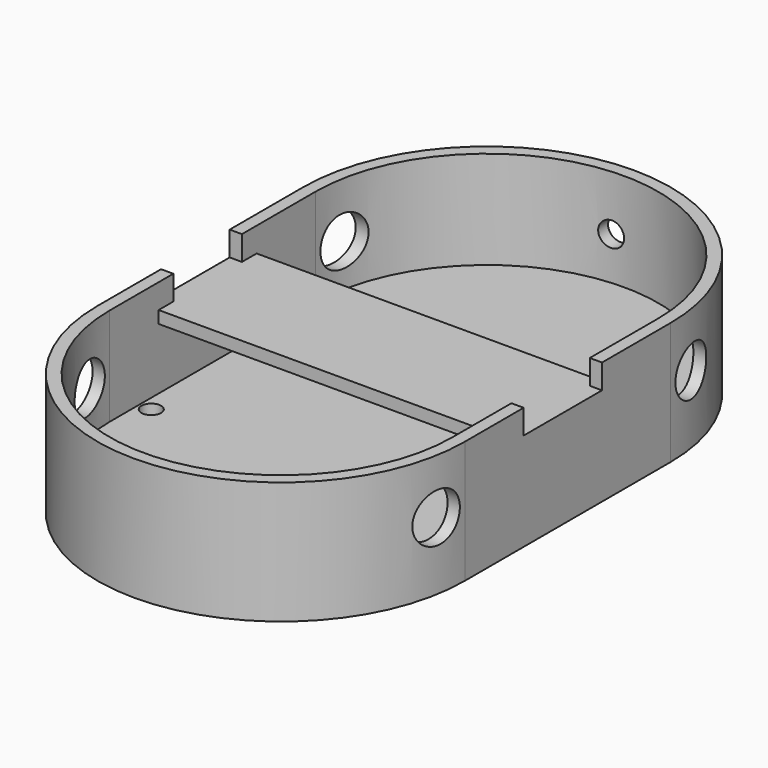
from build123d import *

# Parameters (mm, degrees)
CYLINDER053_R           = 0.8
CYLINDER053_DEPTH       = 10
CYLINDER052_R           = 0.8
CYLINDER052_DEPTH       = 10
BOX056_W                = 1
BOX056_H                = 1
BOX056_DEPTH            = 2
BOX057_W                = 1
BOX057_H                = 1
BOX057_DEPTH            = 2
CYLINDER037_R           = 1
CYLINDER037_DEPTH       = 10
CYLINDER037_ROLL_ANGLE  = 90
CYLINDER029_R           = 2
CYLINDER029_DEPTH       = 10
CYLINDER029_PITCH_ANGLE = 90
CYLINDER031_R           = 2
CYLINDER031_DEPTH       = 10
CYLINDER031_PITCH_ANGLE = 90
CYLINDER030_R           = 2
CYLINDER030_DEPTH       = 10
CYLINDER030_PITCH_ANGLE = 90
CYLINDER028_R           = 2
CYLINDER028_DEPTH       = 10
CYLINDER028_PITCH_ANGLE = 90
BOX012_W                = 33
BOX012_H                = 8
BOX012_DEPTH            = 2
CYLINDER002_W           = 14
CYLINDER002_H           = 8
CYLINDER002_ANGLE       = 180
CYLINDER001_W           = 15
CYLINDER001_H           = 10
CYLINDER001_ANGLE       = 180
CYLINDER003_W           = 14
CYLINDER003_H           = 8
CYLINDER003_ANGLE       = 180
CYLINDER_W              = 15
CYLINDER_H              = 10
CYLINDER_ANGLE          = 180
BOX001_W                = 28
BOX001_H                = 21
BOX001_DEPTH            = 8
BOX_W                   = 30
BOX_H                   = 21
BOX_DEPTH               = 10
FUSION_PLACEMENT_ANGLE  = 180
BOX013_W                = 28
BOX013_H                = 10
BOX013_DEPTH            = 2
BOX011_W                = 28
BOX011_H                = 10
BOX011_DEPTH            = 3


with BuildPart() as cilindro053:
    # Cylinder053 → Cylinder053 (new body)
    with BuildSketch(Plane(origin=(-12, -18, -17), x_dir=(1, 0, 0), z_dir=(0, 0, 1))):
        Circle(CYLINDER053_R)
    extrude(amount=CYLINDER053_DEPTH)


with BuildPart() as cilindro052:
    # Cylinder052 → Cylinder052 (new body)
    with BuildSketch(Plane(origin=(-12, -5, -17), x_dir=(1, 0, 0), z_dir=(0, 0, 1))):
        Circle(CYLINDER052_R)
    extrude(amount=CYLINDER052_DEPTH)


with BuildPart() as cubo056:
    # Box056 → Box056 (new body)
    with BuildSketch(Plane(origin=(-14, -7.5, -2), x_dir=(1, 0, 0), z_dir=(0, 0, 1))):
        with Locations((0.5, 0.5)):
            Rectangle(BOX056_W, BOX056_H)
    extrude(amount=BOX056_DEPTH)


with BuildPart() as cubo057:
    # Box057 → Box057 (new body)
    with BuildSketch(Plane(origin=(-14, -15.5, -2), x_dir=(1, 0, 0), z_dir=(0, 0, 1))):
        with Locations((0.5, 0.5)):
            Rectangle(BOX057_W, BOX057_H)
    extrude(amount=BOX057_DEPTH)


with BuildPart() as cilindro037:
    # Cylinder037 → Cylinder037 (new body)
    with BuildSketch(Plane.XY):
        Circle(CYLINDER037_R)
    extrude(amount=CYLINDER037_DEPTH)


with BuildPart() as cilindro037_1:
    # Cylinder037 roll: moved
    add(cilindro037.part.rotate(Axis((0, 0, 0), (1, 0, 0)), CYLINDER037_ROLL_ANGLE))


with BuildPart() as cilindro037_2:
    # Cylinder037 placement: moved
    add(cilindro037_1.part.moved(Location((-14, 89, 39.5))))


with BuildPart() as cilindro029:
    # Cylinder029 → Cylinder029 (new body)
    with BuildSketch(Plane.XY):
        Circle(CYLINDER029_R)
    extrude(amount=CYLINDER029_DEPTH)


with BuildPart() as cilindro029_1:
    # Cylinder029 pitch: moved
    add(cilindro029.part.rotate(Axis((0, 0, 0), (0, 1, 0)), CYLINDER029_PITCH_ANGLE))


with BuildPart() as cilindro029_2:
    # Cylinder029 placement: moved
    add(cilindro029_1.part.moved(Location((-29, 46.5, 39.5))))


with BuildPart() as cilindro031:
    # Cylinder031 → Cylinder031 (new body)
    with BuildSketch(Plane.XY):
        Circle(CYLINDER031_R)
    extrude(amount=CYLINDER031_DEPTH)


with BuildPart() as cilindro031_1:
    # Cylinder031 pitch: moved
    add(cilindro031.part.rotate(Axis((0, 0, 0), (0, 1, 0)), CYLINDER031_PITCH_ANGLE))


with BuildPart() as cilindro031_2:
    # Cylinder031 placement: moved
    add(cilindro031_1.part.moved(Location((-5, 72.5, 39.5))))


with BuildPart() as cilindro030:
    # Cylinder030 → Cylinder030 (new body)
    with BuildSketch(Plane.XY):
        Circle(CYLINDER030_R)
    extrude(amount=CYLINDER030_DEPTH)


with BuildPart() as cilindro030_1:
    # Cylinder030 pitch: moved
    add(cilindro030.part.rotate(Axis((0, 0, 0), (0, 1, 0)), CYLINDER030_PITCH_ANGLE))


with BuildPart() as cilindro030_2:
    # Cylinder030 placement: moved
    add(cilindro030_1.part.moved(Location((-5, 46.5, 39.5))))


with BuildPart() as cilindro028:
    # Cylinder028 → Cylinder028 (new body)
    with BuildSketch(Plane.XY):
        Circle(CYLINDER028_R)
    extrude(amount=CYLINDER028_DEPTH)


with BuildPart() as cilindro028_1:
    # Cylinder028 pitch: moved
    add(cilindro028.part.rotate(Axis((0, 0, 0), (0, 1, 0)), CYLINDER028_PITCH_ANGLE))


with BuildPart() as cilindro028_2:
    # Cylinder028 placement: moved
    add(cilindro028_1.part.moved(Location((-29, 72.5, 39.5))))


with BuildPart() as cubo012:
    # Box012 → Box012 (new body)
    with BuildSketch(Plane(origin=(-30, 55, 42), x_dir=(1, 0, 0), z_dir=(0, 0, 1))):
        with Locations((16.5, 4)):
            Rectangle(BOX012_W, BOX012_H)
    extrude(amount=BOX012_DEPTH)


with BuildPart() as cilindro002:
    # Cylinder002 → Cylinder002 (revolve)
    with BuildSketch(Plane(origin=(16, 49, -36), x_dir=(1, 0, 0), z_dir=(0, 1, 0))):
        with Locations((7, 4)):
            Rectangle(CYLINDER002_W, CYLINDER002_H)
    revolve(axis=Axis((16, 49, -36), (0, 0, -1)), revolution_arc=CYLINDER002_ANGLE)


with BuildPart() as cut001:
    # Cylinder001 → Cylinder001 (revolve)
    with BuildSketch(Plane(origin=(16, 49, -34), x_dir=(1, 0, 0), z_dir=(0, 1, 0))):
        with Locations((7.5, 5)):
            Rectangle(CYLINDER001_W, CYLINDER001_H)
    revolve(axis=Axis((16, 49, -34), (0, 0, -1)), revolution_arc=CYLINDER001_ANGLE)

    # Cut001: cut Cilindro002
    add(cilindro002.part, mode=Mode.SUBTRACT)


with BuildPart() as cut001_1:
    # Cut001 placement: moved
    add(cut001.part.moved(Location((-3, 0, 0))))


with BuildPart() as cilindro003:
    # Cylinder003 → Cylinder003 (revolve)
    with BuildSketch(Plane(origin=(13, 70, -36), x_dir=(-1, 0, 0), z_dir=(0, -1, 0))):
        with Locations((7, 4)):
            Rectangle(CYLINDER003_W, CYLINDER003_H)
    revolve(axis=Axis((13, 70, -36), (0, 0, -1)), revolution_arc=CYLINDER003_ANGLE)


with BuildPart() as cut002:
    # Cylinder → Cylinder (revolve)
    with BuildSketch(Plane(origin=(13, 70, -34), x_dir=(-1, 0, 0), z_dir=(0, -1, 0))):
        with Locations((7.5, 5)):
            Rectangle(CYLINDER_W, CYLINDER_H)
    revolve(axis=Axis((13, 70, -34), (0, 0, -1)), revolution_arc=CYLINDER_ANGLE)

    # Cut002: cut Cilindro003
    add(cilindro003.part, mode=Mode.SUBTRACT)


with BuildPart() as cubo001:
    # Box001 → Box001 (new body)
    with BuildSketch(Plane(origin=(-1, 49, -44), x_dir=(1, 0, 0), z_dir=(0, 0, 1))):
        with Locations((14, 10.5)):
            Rectangle(BOX001_W, BOX001_H)
    extrude(amount=BOX001_DEPTH)


with BuildPart() as cut058:
    # Box → Box (new body)
    with BuildSketch(Plane(origin=(-2, 49, -44), x_dir=(1, 0, 0), z_dir=(0, 0, 1))):
        with Locations((15, 10.5)):
            Rectangle(BOX_W, BOX_H)
    extrude(amount=BOX_DEPTH)

    # Cut: cut Cubo001
    add(cubo001.part, mode=Mode.SUBTRACT)

    # Fusion: union Cut001, Cut002
    add(cut001_1.part)
    add(cut002.part)


with BuildPart() as cut058_1:
    # Fusion placement: moved
    add(cut058.part.rotate(Axis((0, 0, 0), (0, 1, 0)), FUSION_PLACEMENT_ANGLE))

    # Cut003: cut Cubo012
    add(cubo012.part, mode=Mode.SUBTRACT)

    # Cut040: cut Cilindro028
    add(cilindro028_2.part, mode=Mode.SUBTRACT)

    # Cut041: cut Cilindro030
    add(cilindro030_2.part, mode=Mode.SUBTRACT)

    # Cut042: cut Cilindro031
    add(cilindro031_2.part, mode=Mode.SUBTRACT)

    # Cut043: cut Cilindro029
    add(cilindro029_2.part, mode=Mode.SUBTRACT)

    # Cut058: cut Cilindro037
    add(cilindro037_2.part, mode=Mode.SUBTRACT)


with BuildPart() as cubo013:
    # Box013 → Box013 (new body)
    with BuildSketch(Plane(origin=(-27, 54, 42), x_dir=(1, 0, 0), z_dir=(0, 0, 1))):
        with Locations((14, 5)):
            Rectangle(BOX013_W, BOX013_H)
    extrude(amount=BOX013_DEPTH)


with BuildPart() as cut077:
    # Box011 → Box011 (new body)
    with BuildSketch(Plane(origin=(-27, 54, 41), x_dir=(1, 0, 0), z_dir=(0, 0, 1))):
        with Locations((14, 5)):
            Rectangle(BOX011_W, BOX011_H)
    extrude(amount=BOX011_DEPTH)

    # Cut004: cut Cubo013
    add(cubo013.part, mode=Mode.SUBTRACT)

    # Fusion002022: union Cut058
    add(cut058_1.part)


with BuildPart() as cut077_1:
    # Fusion002022 placement: moved
    add(cut077.part.moved(Location((14, -70, -44))))

    # Fusion002031: union Cubo056, Cubo057
    add(cubo056.part)
    add(cubo057.part)

    # Cut076: cut Cilindro052
    add(cilindro052.part, mode=Mode.SUBTRACT)

    # Cut077: cut Cilindro053
    add(cilindro053.part, mode=Mode.SUBTRACT)


solid = cut077_1.part
